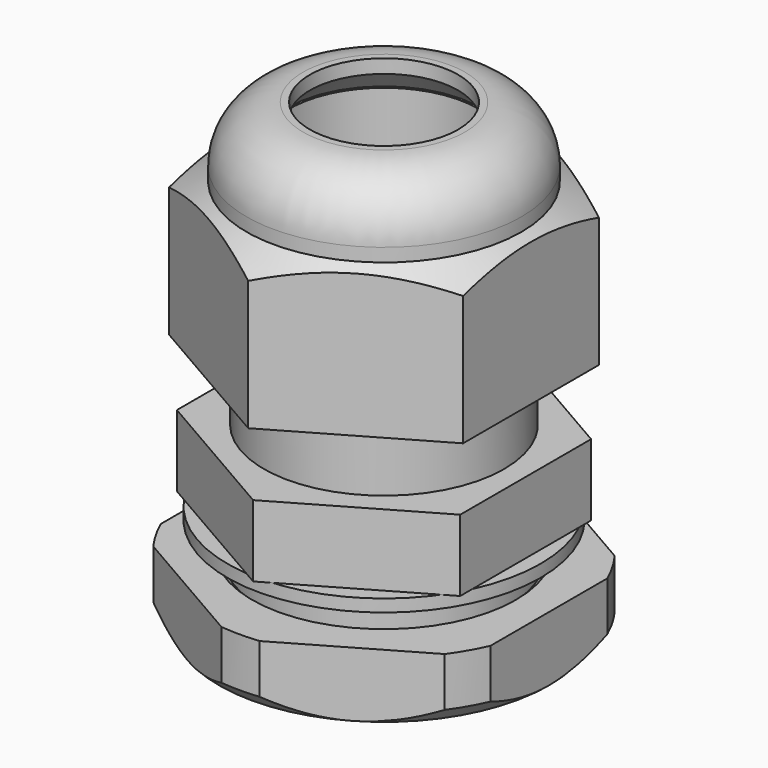
from build123d import *

# Parameters (mm, degrees)
SKETCH001_R     = 14
POCKET_DEPTH    = 14.711
SKETCH003_R     = 14
POCKET001_DEPTH = 15.871
SKETCH005_R     = 15.040905
POCKET002_DEPTH = 4.701
CHAMFER_SIZE    = 0.5
SKETCH006_R     = 11.4
SKETCH006_R_2   = 9.1
PAD_DEPTH       = 0.9


with BuildPart() as body:
    # Sketch → Revolution (revolve)
    with BuildSketch(Plane.XZ):
        Polygon((6.875, -9.5), (6.875, 23.21), (7.875, 23.21), (8.75, 17.21), (8.75, 5.21), (13, 5.21), (13, 0), (9.11, 0), (9.11, -8.5), (8.11, -9.5), align=None)
    revolve(axis=Axis((0, 0, 0), (0, 0, 1)))

    # Sketch001 (on Face2 of Revolution) → Pocket (cut, through all)
    with BuildSketch(Plane(origin=(0, 0, 5.21), x_dir=(-1, 0, 0), z_dir=(0, 0, 1))):
        Circle(SKETCH001_R)
        Polygon((0, 11.904963), (-10.31, 5.952481), (-10.31, -5.952481), (0, -11.904963), (10.31, -5.952481), (10.31, 5.952481), align=None, mode=Mode.SUBTRACT)
    extrude(amount=-POCKET_DEPTH, mode=Mode.SUBTRACT)


with BuildPart() as body001:
    # Sketch002 → Revolution001 (revolve)
    with BuildSketch(Plane.XZ):
        with BuildLine():
            Line((8.8, 8), (14, 8))
            Line((14, 8), (14, 16.490599))
            Line((14, 16.490599), (10, 18.8))
            Line((10, 18.8), (10, 19.77))
            ThreePointArc((10, 19.77), (8.799138, 22.669138), (5.9, 23.87))
            Line((5.4, 23.87), (5.9, 23.87))
            Line((5.4, 22.87), (5.4, 23.87))
            Line((8.8, 19.47), (5.4, 22.87))
            Line((8.8, 8), (8.8, 19.47))
        make_face()
    revolve(axis=Axis((0, 0, 0), (0, 0, 1)))

    # Sketch003 (on Face1 of Revolution001) → Pocket001 (cut, through all)
    with BuildSketch(Plane(origin=(0, 0, 8), x_dir=(1, 0, 0), z_dir=(0, 0, -1))):
        Circle(SKETCH003_R)
        Polygon((0, 12.355296), (-10.7, 6.177648), (-10.7, -6.177648), (0, -12.355296), (10.7, -6.177648), (10.7, 6.177648), align=None, mode=Mode.SUBTRACT)
    extrude(amount=-POCKET001_DEPTH, mode=Mode.SUBTRACT)


with BuildPart() as body001_1:
    # Body001 placement: moved
    add(body001.part.moved(Location((0, 0, 2))))


with BuildPart() as body002:
    # Sketch004 → Revolution002 (revolve)
    with BuildSketch(Plane.YZ):
        Polygon((9.1, 0), (9.1, -4.7), (12, -4.7), (13.125, -3.575), (13.125, 0), align=None)
    revolve(axis=Axis((0, 0, 0), (0, 0, 1)))

    # Sketch005 (on Face2 of Revolution002) → Pocket002 (cut, through all)
    with BuildSketch(Plane.YX.offset(4.7)):
        Circle(SKETCH005_R)
        Polygon((13.856406, 0), (6.928203, 12), (-6.928203, 12), (-13.856406, 0), (-6.928203, -12), (6.928203, -12), align=None, mode=Mode.SUBTRACT)
    extrude(amount=-POCKET002_DEPTH, mode=Mode.SUBTRACT)

    # Chamfer
    chamfer_edges = [body002.edges().sort_by_distance(p)[0] for p in [
        (0, -9.1, -4.7),
        (0, -9.1, 0),
    ]]
    chamfer(chamfer_edges, length=CHAMFER_SIZE)


with BuildPart() as body002_1:
    # Body002 placement: moved
    add(body002.part.moved(Location((0, 0, -2.9))))


with BuildPart() as body003:
    # Sketch006 → Pad (new body)
    with BuildSketch(Plane.XY):
        Circle(SKETCH006_R)
        Circle(SKETCH006_R_2, mode=Mode.SUBTRACT)
    extrude(amount=-PAD_DEPTH)


solid = Compound([body.part, body001_1.part, body002_1.part, body003.part])
